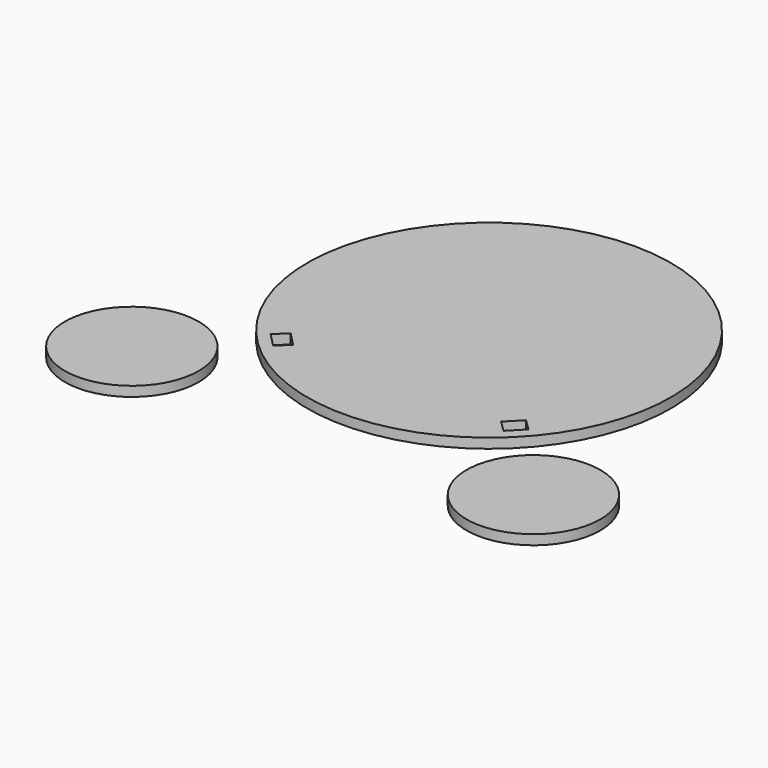
from build123d import *

# Parameters (mm, degrees)
F0_R     = 170.481328
F1_DEPTH = 25
F2_DEPTH = 25


with BuildPart() as f1:
    # F0 (on Top) → F1 (new body)
    with BuildSketch(Plane.XY):
        with BuildLine():
            ThreePointArc((-85.909493, -392.09225), (377.437586, 71.254829), (-85.909493, 534.601908))
            ThreePointArc((-85.909493, 534.601908), (-549.256572, 71.254829), (-85.909493, -392.09225))
        make_face()
        Polygon((-379.41452, -249.531415), (-414.301964, -213.714293), (-385.648267, -185.804338), (-350.760823, -221.62146), align=None, mode=Mode.SUBTRACT)
        Polygon((242.482978, -213.714293), (207.595534, -249.531415), (178.941836, -221.62146), (213.82928, -185.804338), align=None, mode=Mode.SUBTRACT)
        with Locations((-597.434128, -426.99254)):
            Circle(F0_R)
        with Locations((425.615141, -426.99254)):
            Circle(F0_R)
    extrude(amount=F1_DEPTH)


with BuildPart() as f2:
    # F0 (on Top) → F2 (new body)
    with BuildSketch(Plane.XY):
        with BuildLine():
            ThreePointArc((-85.909493, -392.09225), (377.437586, 71.254829), (-85.909493, 534.601908))
            ThreePointArc((-85.909493, 534.601908), (-549.256572, 71.254829), (-85.909493, -392.09225))
        make_face()
        Polygon((-379.41452, -249.531415), (-414.301964, -213.714293), (-385.648267, -185.804338), (-350.760823, -221.62146), align=None, mode=Mode.SUBTRACT)
        Polygon((242.482978, -213.714293), (207.595534, -249.531415), (178.941836, -221.62146), (213.82928, -185.804338), align=None, mode=Mode.SUBTRACT)
        with Locations((-597.434128, -426.99254)):
            Circle(F0_R)
        with Locations((425.615141, -426.99254)):
            Circle(F0_R)
    extrude(amount=F2_DEPTH)


solid = Compound([f1.part, f2.part])
